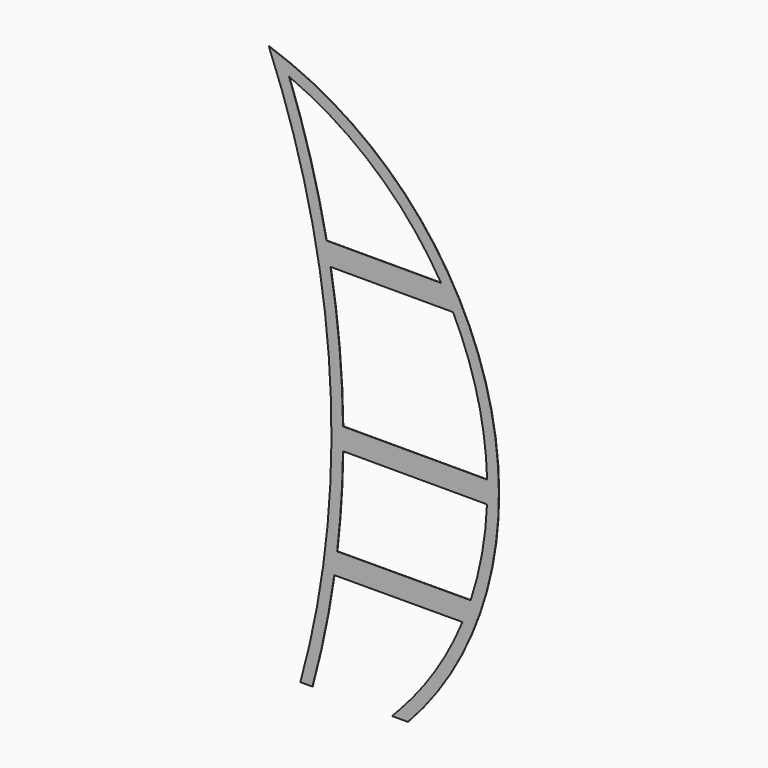
from build123d import *

# Parameters (mm, degrees)
F1_DEPTH = 2.6


with BuildPart() as f1:
    # F0 (on Front) → F1 (new body)
    with BuildSketch(Plane.XZ):
        with BuildLine():
            ThreePointArc((-1026.491532, 2716.774087), (-605.412605, 845.862271), (-809.635548, -1060.944346))
            Line((-809.635548, -1060.944346), (-731.346246, -1060.944346))
            Line((-731.346246, -1060.944346), (-726.654389, -1060.944346))
            ThreePointArc((-726.654389, -1060.944346), (-640.234436, -701.486195), (-576.298898, -337.355975))
            Line((-576.298898, -337.355975), (304.704572, -334.787628))
            ThreePointArc((304.704572, -334.787628), (118.401638, -690.039659), (-128.413053, -1006.259988))
            Line((-128.413053, -1006.259988), (-179.625244, -1060.944346))
            Line((-179.625244, -1060.944346), (-175.000856, -1060.944346))
            Line((-175.000856, -1060.944346), (-70.021116, -1060.944346))
            ThreePointArc((-70.021116, -1060.944346), (484.365429, 1089.361608), (-1026.491532, 2716.774087))
        make_face()
        with BuildLine():
            Line((360.755717, -184.623581), (-556.675395, -187.298123))
            ThreePointArc((-556.675395, -187.298123), (-528.38087, 122.002085), (-516.260371, 432.357192))
            Line((-516.260371, 432.357192), (473.399438, 432.357192))
            ThreePointArc((473.399438, 432.357192), (438.830488, 119.895322), (360.755717, -184.623581))
        make_face(mode=Mode.SUBTRACT)
        with BuildLine():
            ThreePointArc((-887.036238, 2578.552872), (-292.568185, 2207.0197), (157.540084, 1669.589043))
            Line((157.540084, 1669.589043), (-629.946171, 1669.589043))
            ThreePointArc((-629.946171, 1669.589043), (-740.429438, 2129.179522), (-887.036238, 2578.552872))
        make_face(mode=Mode.SUBTRACT)
        with BuildLine():
            Line((474.332343, 582.357168), (-516.20993, 582.357168))
            ThreePointArc((-516.20993, 582.357168), (-540.613149, 1052.674067), (-602.126448, 1519.589067))
            Line((-602.126448, 1519.589067), (239.76179, 1519.589067))
            ThreePointArc((239.76179, 1519.589067), (408.30395, 1063.801698), (474.332343, 582.357168))
        make_face(mode=Mode.SUBTRACT)
    extrude(amount=F1_DEPTH)


solid = f1.part
